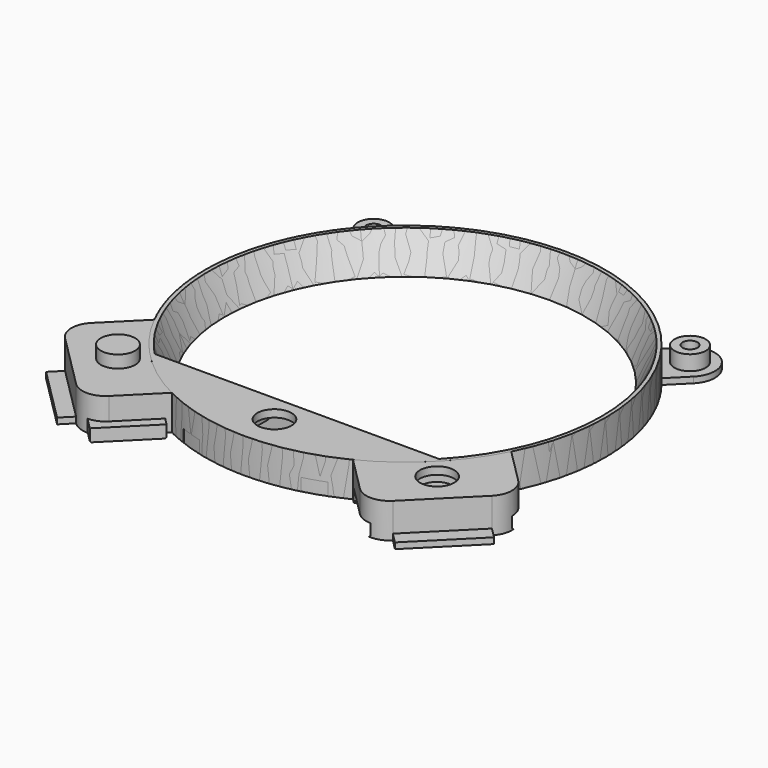
from build123d import *

# Parameters (mm, degrees)
PAD_DEPTH                = 1.2
SKETCH001_R              = 3.15
PAD001_DEPTH             = 3
SKETCH002_R              = 0.8
POCKET_DEPTH             = 4.201
SKETCH003_R              = 1.5
POCKET001_DEPTH          = 3.5
CLONE_PLACEMENT_ANGLE    = 90.0000000001
CLONE001_PLACEMENT_ANGLE = 180
CLONE002_PLACEMENT_ANGLE = -90.0000000001
PAD005_DEPTH             = 2.5
CHAMFER_SIZE             = 0.25
PAD006_DEPTH             = 3
SKETCH009_R              = 3.44
PAD007_DEPTH             = 4
CLONE009_PLACEMENT_ANGLE = 90.0000000001
SKETCH004_R              = 40.25
SKETCH004_R_2            = 36.25
PAD002_DEPTH             = 7
PAD004_DEPTH             = 7
SKETCH010_W              = 15.65
SKETCH010_H              = 1.2
PAD008_DEPTH             = 3
CLONE008_PLACEMENT_ANGLE = 90.0000000001
CLONE011_PLACEMENT_ANGLE = 45
PAD009_DEPTH             = 7
CHAMFER001_SIZE          = 4


with BuildPart() as pocket_tab_threads:
    # Sketch → Pad (new body)
    with BuildSketch(Plane.XY):
        with BuildLine():
            ThreePointArc((-28.2842712474, 35.3553390593), (-35.3553390593, 35.3553390593), (-35.3553390593, 28.2842712475))
            Line((-31.7761296858, 24.7050618739), (-35.3553390593, 28.2842712475))
            ThreePointArc((-24.7050618739, 31.7761296858), (-28.4610479427, 28.4610479428), (-31.7761296858, 24.7050618739))
            Line((-28.2842712474, 35.3553390593), (-24.7050618739, 31.7761296858))
        make_face()
    extrude(amount=PAD_DEPTH)

    # Sketch001 → Pad001 (new body)
    with BuildSketch(Plane.XY.offset(1.2)):
        with Locations((-31.8198051534, 31.8198051534)):
            Circle(SKETCH001_R)
    extrude(amount=PAD001_DEPTH)

    # Sketch002 → Pocket (cut, through all)
    with BuildSketch(Plane.XY.offset(4.2)):
        with Locations((-31.8198051534, 31.8198051534)):
            Circle(SKETCH002_R)
    extrude(amount=-POCKET_DEPTH, mode=Mode.SUBTRACT)

    # Sketch003 → Pocket001 (cut)
    with BuildSketch(Plane.XY.offset(4.2)):
        with Locations((-31.8198051534, 31.8198051534)):
            Circle(SKETCH003_R)
    extrude(amount=-POCKET001_DEPTH, mode=Mode.SUBTRACT)


with BuildPart() as tab_bottom_left:
    # Clone base: copy of Pocket (tab threads)
    add(pocket_tab_threads.part)


with BuildPart() as tab_bottom_left_1:
    # Clone placement: moved
    add(tab_bottom_left.part.rotate(Axis((0, 0, 0), (0, 0, 1)), CLONE_PLACEMENT_ANGLE))


with BuildPart() as tab_bottom_right:
    # Clone001 base: copy of Pocket (tab threads)
    add(pocket_tab_threads.part)


with BuildPart() as tab_bottom_right_1:
    # Clone001 placement: moved
    add(tab_bottom_right.part.rotate(Axis((0, 0, 0), (0, 0, 1)), CLONE001_PLACEMENT_ANGLE))


with BuildPart() as tab_top_right:
    # Clone002 base: copy of Pocket (tab threads)
    add(pocket_tab_threads.part)


with BuildPart() as tab_top_right_1:
    # Clone002 placement: moved
    add(tab_top_right.part.rotate(Axis((0, 0, 0), (0, 0, 1)), CLONE002_PLACEMENT_ANGLE))


with BuildPart() as obj1:
    # Sketch007 → Pad005 (new body)
    with BuildSketch(Plane.XY):
        Polygon((-38.0409306143, -17.5348339599), (-17.5348339599, -38.0409306143), (-26.1191102835, -46.6252069379), (-46.6252069379, -26.1191102835), align=None)
    extrude(amount=PAD005_DEPTH)

    # Chamfer
    chamfer_edges = [obj1.edges().sort_by_distance(p)[0] for p in [
        (-27.787882, -27.787882, 0),
        (-36.372159, -36.372159, 0),
    ]]
    chamfer(chamfer_edges, length=CHAMFER_SIZE)

    # Sketch008 → Pad006 (new body)
    with BuildSketch(Plane.XY.offset(2.5)):
        Polygon((-32.0941625845, -23.4816019896), (-40.6784389081, -32.0658783132), (-32.0658783132, -40.6784389081), (-23.4816019896, -32.0941625845), align=None)
    extrude(amount=PAD006_DEPTH)

    # Sketch009 → Pad007 (new body)
    with BuildSketch(Plane.XY.offset(5.5)):
        with Locations((-32.0800204489, -32.0800204489)):
            Circle(SKETCH009_R)
    extrude(amount=PAD007_DEPTH)


with BuildPart() as obj2:
    # Clone007 base: copy of obj1)
    add(obj1.part)


with BuildPart() as obj3:
    # Clone010 base: copy of obj2
    add(obj2.part)


with BuildPart() as obj4:
    # Clone009 base: copy of obj2
    add(obj2.part)


with BuildPart() as obj4_1:
    # Clone009 placement: moved
    add(obj4.part.rotate(Axis((0, 0, 0), (0, 0, 1)), CLONE009_PLACEMENT_ANGLE))

    # Compound: union obj3)
    add(obj3.part)


with BuildPart() as cone:
    # Cone → Cone (revolve)
    with BuildSketch(Plane.XZ):
        Polygon((0, 0), (36.25, 0), (39.5, 7), (0, 7), align=None)
    revolve(axis=Axis((0, 0, 0), (0, 0, 1)))


with BuildPart() as ring_chamfered:
    # Sketch004 → Pad002 (new body)
    with BuildSketch(Plane.XY):
        Circle(SKETCH004_R)
        Circle(SKETCH004_R_2, mode=Mode.SUBTRACT)
    extrude(amount=PAD002_DEPTH)

    # Cut: cut Cone
    add(cone.part, mode=Mode.SUBTRACT)


with BuildPart() as obj5:
    # Cut002 base: copy of Ring Chamfered
    add(ring_chamfered.part)

    # Cut002: cut obj4)
    add(obj4_1.part, mode=Mode.SUBTRACT)


with BuildPart() as pad_encoder_mount_tab_wing:
    # Sketch006 → Pad004 (new body)
    with BuildSketch(Plane.XY):
        with BuildLine():
            ThreePointArc((-42.9099501254, -31.8437289998), (-44.2792259233, -28.5380047978), (-42.9099501254, -25.2322805957))
            Line((-42.9099501254, -25.2322805957), (-35.8926006764, -18.2149311468))
            ThreePointArc((-35.8926006764, -18.2149311468), (-28.4610479428, -28.4610479428), (-18.2149311468, -35.8926006764))
            Line((-18.2149311468, -35.8926006764), (-25.2322805957, -42.9099501254))
            ThreePointArc((-25.2322805957, -42.9099501254), (-28.5380047978, -44.2792259233), (-31.8437289998, -42.9099501254))
            Line((-31.8437289998, -42.9099501254), (-42.9099501254, -31.8437289998))
        make_face()
    extrude(amount=PAD004_DEPTH)

    # Cut001: cut obj1)
    add(obj1.part, mode=Mode.SUBTRACT)

    # Sketch010 → Pad008 (new body)
    with BuildSketch(Plane(origin=(-37.3768395626, -37.3768395626, 0), x_dir=(0.7071067812, -0.7071067812, 0), z_dir=(-0.7071067812, -0.7071067812, 0))):
        with Locations((0, 0.6)):
            Rectangle(SKETCH010_W, SKETCH010_H)
    extrude(amount=PAD008_DEPTH)


with BuildPart() as obj6:
    # Clone008 base: copy of Pad (encoder mount tab wing)
    add(pad_encoder_mount_tab_wing.part)


with BuildPart() as obj6_1:
    # Clone008 placement: moved
    add(obj6.part.rotate(Axis((0, 0, 0), (0, 0, 1)), CLONE008_PLACEMENT_ANGLE))


with BuildPart() as clone011:
    # Clone011 base: copy of obj2
    add(obj2.part)


with BuildPart() as clone011_1:
    # Clone011 placement: moved
    add(clone011.part.moved(Location((0, 12.5, 0))).rotate(Axis((0, 12.5, 0), (0, 0, 1)), CLONE011_PLACEMENT_ANGLE))


with BuildPart() as cut_attitude_mount:
    # Sketch011 → Pad009 (new body)
    with BuildSketch(Plane.XY):
        with BuildLine():
            ThreePointArc((-32.8557453119, -23.25), (0, -40.25), (32.8557453119, -23.25))
            Line((32.8557453119, -23.25), (-32.8557453119, -23.25))
        make_face()
    extrude(amount=PAD009_DEPTH)

    # Chamfer001
    chamfer001_edges = [cut_attitude_mount.edges().sort_by_distance(p)[0] for p in [
        (0, -23.25, 7),
    ]]
    chamfer(chamfer001_edges, length=CHAMFER001_SIZE)

    # Cut003: cut Clone011
    add(clone011_1.part, mode=Mode.SUBTRACT)


with BuildPart() as obj7:
    # Clone013 base: copy of Clone011
    add(clone011_1.part)


with BuildPart() as cut_attitude_ring:
    # Cut004 base: copy of Ring Chamfered
    add(ring_chamfered.part)

    # Cut004: cut obj7)
    add(obj7.part, mode=Mode.SUBTRACT)

    # Cut005: cut Cut (attitude mount)
    add(cut_attitude_mount.part, mode=Mode.SUBTRACT)


with BuildPart() as fusion_attitude_bezel:
    # Fusion base: copy of Cut (attitude mount)
    add(cut_attitude_mount.part)

    # Fusion: union Cut (attitude ring)
    add(cut_attitude_ring.part)


solid = Compound([pocket_tab_threads.part, tab_bottom_left_1.part, tab_bottom_right_1.part, tab_top_right_1.part, obj2.part, obj5.part, pad_encoder_mount_tab_wing.part, obj6_1.part, fusion_attitude_bezel.part])
